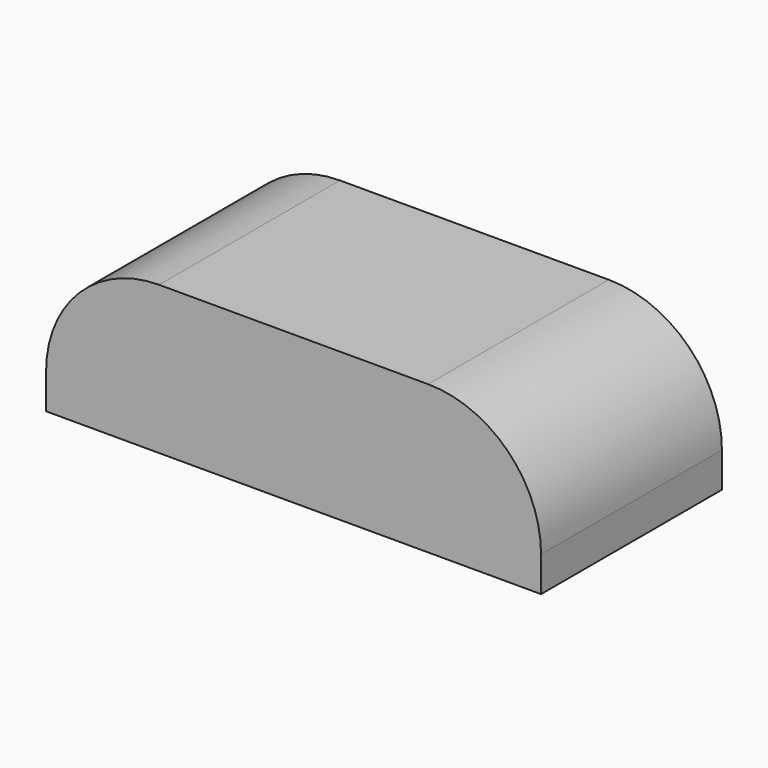
from build123d import *

# Parameters (mm, degrees)
F1_DEPTH = 29


with BuildPart() as f1:
    # F0 (on Front) → F1 (new body, symmetric)
    with BuildSketch(Plane.XZ):
        with BuildLine():
            Line((-63.5, 0), (63.5, 0))
            Line((63.5, 0), (63.5, 9))
            ThreePointArc((63.5, 9), (55.006097, 29.506097), (34.5, 38))
            Line((34.5, 38), (-34.5, 38))
            ThreePointArc((-34.5, 38), (-55.006097, 29.506097), (-63.5, 9))
            Line((-63.5, 9), (-63.5, 0))
        make_face()
    extrude(amount=F1_DEPTH, both=True)


solid = f1.part
